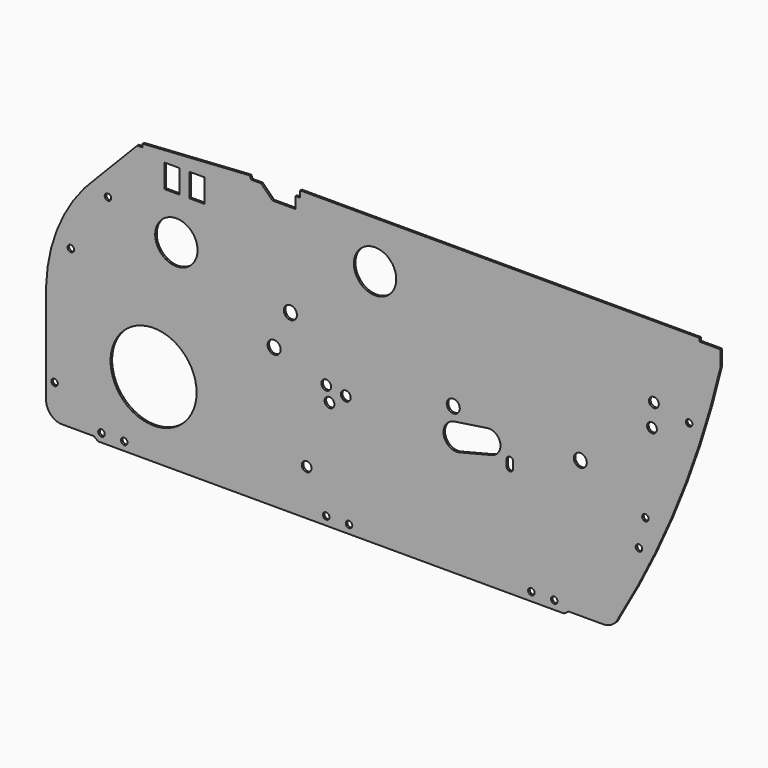
from build123d import *

# Parameters (mm, degrees)
F0_R     = 5
F0_R_2   = 7.5
F0_R_3   = 66
F0_R_4   = 10
F0_R_5   = 32.5
F0_W     = 23
F0_H     = 36
F1_DEPTH = 3


with BuildPart() as f1:
    # F0 (on Front) → F1 (new body)
    with BuildSketch(Plane.XZ):
        with BuildLine():
            Line((485.5, 220), (-127.5, 220))
            Line((-127.5, 220), (-127.5, 210))
            Line((-127.5, 210), (-134.75039, 210))
            Line((-134.75039, 210), (-134.75039, 192.473475))
            Line((-134.75039, 192.473475), (-169.75039, 192.473475))
            Line((-169.75039, 192.473475), (-187.5, 210))
            Line((-187.5, 210), (-202.5, 210))
            Line((-202.5, 210), (-205.015528, 215.031056))
            Line((-205.015528, 215.031056), (-369.300663, 204.499957))
            Line((-369.300663, 204.499957), (-369.300663, 199.279205))
            Line((-369.300663, 199.279205), (-377.592892, 199.279205))
            Line((-377.592892, 199.279205), (-439.924242, 135))
            ThreePointArc((-439.924242, 135), (-495.976296, 56.860385), (-517.5, -36.864545))
            Line((-517.5, -36.864545), (-517.5, -190))
            ThreePointArc((-517.5, -190), (-510.17767, -207.67767), (-492.5, -215))
            Line((-492.5, -215), (-444.275975, -215))
            Line((-444.275975, -215), (-437.5, -220))
            Line((-437.5, -220), (277.5, -220))
            Line((277.5, -220), (284.993529, -215))
            Line((284.993529, -215), (337.624641, -215))
            ThreePointArc((337.624641, -215), (351.618609, -210.716392), (360.817002, -199.333511))
            ThreePointArc((360.817002, -199.333511), (453.621252, -10.487131), (517.5, 190))
            Line((517.5, 190), (517.5, 215))
            Line((517.5, 215), (485.5, 215))
            Line((485.5, 215), (485.5, 220))
        make_face()
        with Locations((-432.5, -207)):
            Circle(F0_R, mode=Mode.SUBTRACT)
        with Locations((-397.5, -207)):
            Circle(F0_R, mode=Mode.SUBTRACT)
        with Locations((-504.5, -162)):
            Circle(F0_R, mode=Mode.SUBTRACT)
        with Locations((-87.5, -207)):
            Circle(F0_R, mode=Mode.SUBTRACT)
        with Locations((-52.5, -207)):
            Circle(F0_R, mode=Mode.SUBTRACT)
        with Locations((-117.5, -150)):
            Circle(F0_R_2, mode=Mode.SUBTRACT)
        with Locations((-352.5, -105)):
            Circle(F0_R_3, mode=Mode.SUBTRACT)
        with Locations((-167.5, -5)):
            Circle(F0_R_4, mode=Mode.SUBTRACT)
        with Locations((-82.5, -52)):
            Circle(F0_R_2, mode=Mode.SUBTRACT)
        with Locations((-87.5, -30)):
            Circle(F0_R_2, mode=Mode.SUBTRACT)
        with Locations((-57.5, -35)):
            Circle(F0_R_2, mode=Mode.SUBTRACT)
        with Locations((227.5, -206.81086)):
            Circle(F0_R, mode=Mode.SUBTRACT)
        with Locations((262.5, -206.81086)):
            Circle(F0_R, mode=Mode.SUBTRACT)
        with BuildLine():
            ThreePointArc((117.379144, -54.39572), (92.888386, -38.922323), (109.543933, -15.219665))
            Line((109.543933, -15.219665), (159.913441, -7.692207))
            ThreePointArc((159.913441, -7.692207), (179.660162, -21.567968), (166.769251, -41.971255))
            Line((166.769251, -41.971255), (117.379144, -54.39572))
        make_face(mode=Mode.SUBTRACT)
        with BuildLine():
            ThreePointArc((189.5, -40), (194.5, -35), (199.5, -40))
            Line((199.5, -40), (199.5, -50))
            ThreePointArc((199.5, -50), (194.5, -55), (189.5, -50))
            Line((189.5, -50), (189.5, -40))
        make_face(mode=Mode.SUBTRACT)
        with Locations((392.5, -94)):
            Circle(F0_R, mode=Mode.SUBTRACT)
        with Locations((302.5, -5)):
            Circle(F0_R_4, mode=Mode.SUBTRACT)
        with Locations((402.5, -50)):
            Circle(F0_R, mode=Mode.SUBTRACT)
        with Locations((-479.5, 27)):
            Circle(F0_R, mode=Mode.SUBTRACT)
        with Locations((-317.5, 88)):
            Circle(F0_R_5, mode=Mode.SUBTRACT)
        with Locations((-142.5, 50)):
            Circle(F0_R_4, mode=Mode.SUBTRACT)
        with Locations((-422.5, 115)):
            Circle(F0_R, mode=Mode.SUBTRACT)
        with Locations((-324, 172)):
            Rectangle(F0_W, F0_H, mode=Mode.SUBTRACT)
        with Locations((-286, 172)):
            Rectangle(F0_W, F0_H, mode=Mode.SUBTRACT)
        with Locations((-12.5, 148)):
            Circle(F0_R_5, mode=Mode.SUBTRACT)
        with Locations((107.5, 5)):
            Circle(F0_R_4, mode=Mode.SUBTRACT)
        with Locations((412.5, 75)):
            Circle(F0_R_2, mode=Mode.SUBTRACT)
        with Locations((469.5, 100)):
            Circle(F0_R, mode=Mode.SUBTRACT)
        with Locations((415.5, 110)):
            Circle(F0_R_2, mode=Mode.SUBTRACT)
    extrude(amount=F1_DEPTH)


solid = f1.part
